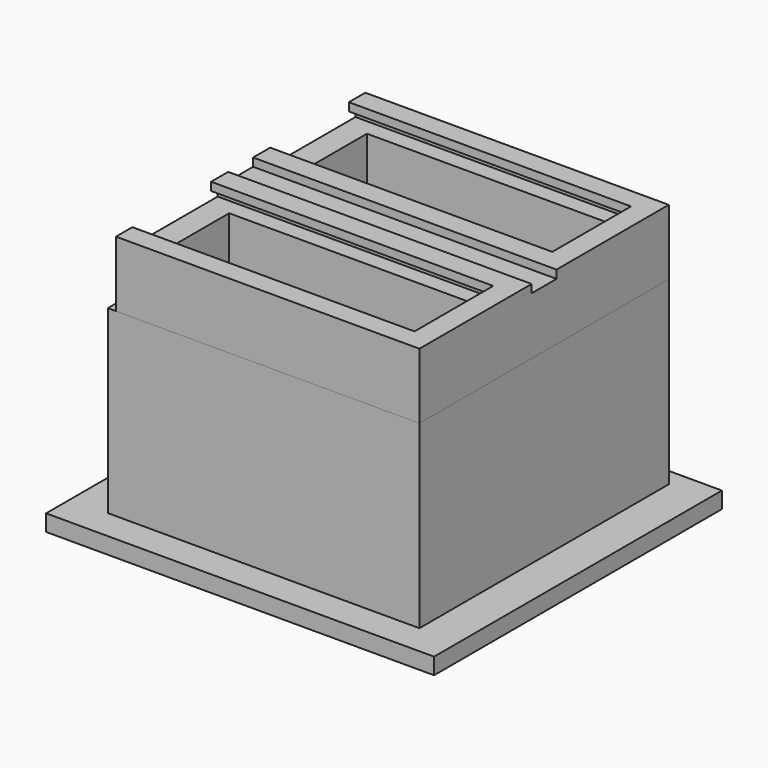
from build123d import *

# Parameters (mm, degrees)
F0_W      = 19
F0_H      = 19
F0_W_2    = 17
F0_H_2    = 6.5
F1_DEPTH  = 11
F2_W      = 5
F2_H      = 5
F3_DEPTH  = 2
F4_W      = 18.5
F4_H      = 19
F4_W_2    = 15
F4_H_2    = 5
F5_DEPTH  = 3
F6_W      = 17.75
F6_H      = 0.75
F6_H_2    = 3.5
F7_DEPTH  = 0.5
F8_W      = 17.2
F8_H      = 1.25
F8_H_2    = 4.5
F9_DEPTH  = 0.5
F10_W     = 18.5
F10_H     = 1.9
F11_DEPTH = 0.5
F12_W     = 23.653655313
F12_H     = 21.9355393201
F12_W_2   = 15
F12_H_2   = 2
F12_R     = 1
F13_DEPTH = 1
F14_W     = 3.9
F14_H     = 4
F15_DEPTH = 2.9
F16_R     = 0.6
F17_DEPTH = 5


with BuildPart() as f1:
    # F0 (on Top) → F1 (new body)
    with BuildSketch(Plane.XY):
        with Locations((27.1572303065, -0.1830193214)):
            Rectangle(F0_W, F0_H)
        with Locations((27.1572303065, -5.4330193214)):
            Rectangle(F0_W_2, F0_H_2, mode=Mode.SUBTRACT)
        with Locations((27.1572303065, 5.0669806786)):
            Rectangle(F0_W_2, F0_H_2, mode=Mode.SUBTRACT)
    extrude(amount=F1_DEPTH)

    # F16 (on face) → F17 (cut)
    with BuildSketch(Plane.XY):
        with Locations((21.6572303065, -0.1830193214)):
            Circle(F16_R)
        with Locations((32.6572303065, -0.1830193214)):
            Circle(F16_R)
    extrude(amount=F17_DEPTH, mode=Mode.SUBTRACT)


with BuildPart() as f3:
    # F2 (on Top) → F3 (new body)
    with BuildSketch(Plane.XY):
        with Locations((23.1572303065, 5.0669806786)):
            Rectangle(F2_W, F2_H)
    extrude(amount=F3_DEPTH)


with BuildPart() as f3b:
    # F2 (on Top) → F3, piece 2 (new body)
    with BuildSketch(Plane.XY):
        with Locations((23.1572303065, -5.4330193214)):
            Rectangle(F2_W, F2_H)
    extrude(amount=F3_DEPTH)


with BuildPart() as f3c:
    # F2 (on Top) → F3, piece 3 (new body)
    with BuildSketch(Plane.XY):
        with Locations((31.1572303065, 5.0669806786)):
            Rectangle(F2_W, F2_H)
    extrude(amount=F3_DEPTH)


with BuildPart() as f3d:
    # F2 (on Top) → F3, piece 4 (new body)
    with BuildSketch(Plane.XY):
        with Locations((31.1572303065, -5.4330193214)):
            Rectangle(F2_W, F2_H)
    extrude(amount=F3_DEPTH)


with BuildPart() as f5:
    # F4 (on face) → F5 (new body)
    with BuildSketch(Plane.XY.offset(11)):
        with Locations((27.4072303065, -0.1830193214)):
            Rectangle(F4_W, F4_H)
        with Locations((27.1572303065, -5.4330193214)):
            Rectangle(F4_W_2, F4_H_2, mode=Mode.SUBTRACT)
        with Locations((27.1572303065, 5.0669806786)):
            Rectangle(F4_W_2, F4_H_2, mode=Mode.SUBTRACT)
    extrude(amount=F5_DEPTH)

    # F6 (on face) → F7 (join)
    with BuildSketch(Plane.XY.offset(14)):
        Polygon((36.6572303065, -9.6830193214), (36.6572303065, 9.3169806786), (35.9072303065, 9.3169806786), (35.9072303065, 8.5669806786), (35.9072303065, 1.5669806786), (35.9072303065, -1.9330193214), (35.9072303065, -8.9330193214), (35.9072303065, -9.6830193214), align=None)
        with Locations((27.0322303065, 8.9419806786)):
            Rectangle(F6_W, F6_H)
        with Locations((27.0322303065, -9.3080193214)):
            Rectangle(F6_W, F6_H)
        with Locations((27.0322303065, -0.1830193214)):
            Rectangle(F6_W, F6_H_2)
    extrude(amount=F7_DEPTH)

    # F8 (on face) → F9 (join)
    with BuildSketch(Plane.XY.offset(14.5)):
        Polygon((36.6572303065, -9.6830193214), (36.6572303065, 9.3169806786), (35.3572303065, 9.3169806786), (35.3572303065, 8.0669806786), (35.3572303065, 2.0669806786), (35.3572303065, -2.4330193214), (35.3572303065, -8.4330193214), (35.3572303065, -9.6830193214), align=None)
        with Locations((26.7572303065, 8.6919806786)):
            Rectangle(F8_W, F8_H)
        with Locations((26.7572303065, -9.0580193214)):
            Rectangle(F8_W, F8_H)
        with Locations((26.7572303065, -0.1830193214)):
            Rectangle(F8_W, F8_H_2)
    extrude(amount=F9_DEPTH)

    # F10 (on face) → F11 (cut)
    with BuildSketch(Plane.XY.offset(15)):
        with Locations((27.4072303065, -0.1830193214)):
            Rectangle(F10_W, F10_H)
    extrude(amount=-F11_DEPTH, mode=Mode.SUBTRACT)


with BuildPart() as f13:
    # F12 (on Top) → F13 (new body)
    with BuildSketch(Plane.XY):
        with Locations((27.2063766606, -0.5692541599)):
            Rectangle(F12_W, F12_H)
        with Locations((27.1572303065, -7.6830193214)):
            Rectangle(F12_W_2, F12_H_2, mode=Mode.SUBTRACT)
        with Locations((27.1572303065, -3.1830193214)):
            Rectangle(F12_W_2, F12_H_2, mode=Mode.SUBTRACT)
        with Locations((21.6572303065, -0.1830193214)):
            Circle(F12_R, mode=Mode.SUBTRACT)
        with Locations((27.1572303065, 2.8169806786)):
            Rectangle(F12_W_2, F12_H_2, mode=Mode.SUBTRACT)
        with Locations((27.1572303065, 7.3169806786)):
            Rectangle(F12_W_2, F12_H_2, mode=Mode.SUBTRACT)
        with Locations((32.6572303065, -0.1830193214)):
            Circle(F12_R, mode=Mode.SUBTRACT)
    extrude(amount=-F13_DEPTH)

    # F14 (on face) → F15 (join)
    with BuildSketch(Plane.XY):
        with Locations((27.1572303065, -0.1830193214)):
            Rectangle(F14_W, F14_H)
    extrude(amount=F15_DEPTH)


solid = Compound([f1.part, f3.part, f3b.part, f3c.part, f3d.part, f5.part, f13.part])
